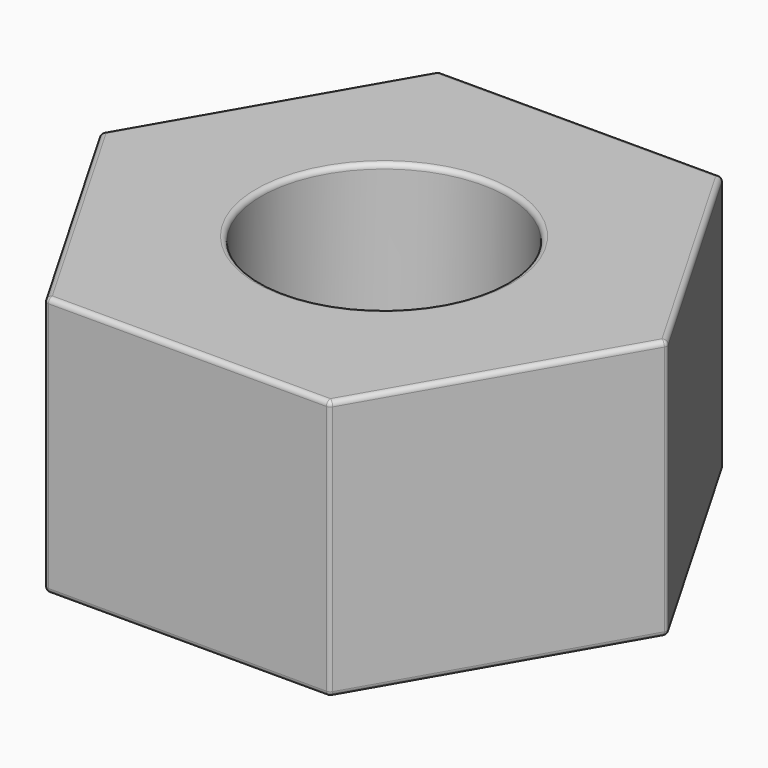
from build123d import *

# Parameters (mm, degrees)
F0_R     = 2.5
F1_DEPTH = 5.3
F2_R     = 0.1


with BuildPart() as f1:
    # F0 (on Top) → F1 (new body)
    with BuildSketch(Plane.XY):
        Polygon((5.773503, 0), (2.886751, 5), (-2.886751, 5), (-5.773503, 0), (-2.886751, -5), (2.886751, -5), align=None)
        Circle(F0_R, mode=Mode.SUBTRACT)
    extrude(amount=F1_DEPTH)

    # F2
    f2_edges = [f1.edges().sort_by_distance(p)[0] for p in [
        (5.773503, 0, 2.65),
        (2.886751, 5, 2.65),
        (4.330127, 2.5, 0),
        (4.330127, 2.5, 5.3),
        (2.886751, -5, 2.65),
        (4.330127, -2.5, 0),
        (4.330127, -2.5, 5.3),
        (0, 5, 5.3),
        (-4.330127, 2.5, 5.3),
        (-4.330127, -2.5, 5.3),
        (0, -5, 5.3),
        (-2.5, 0, 5.3),
        (-2.886751, -5, 2.65),
        (0, -5, 0),
        (0, 5, 0),
        (-4.330127, 2.5, 0),
        (-4.330127, -2.5, 0),
        (-2.5, 0, 0),
        (-2.886751, 5, 2.65),
        (-5.773503, 0, 2.65),
    ]]
    fillet(f2_edges, radius=F2_R)


solid = f1.part
